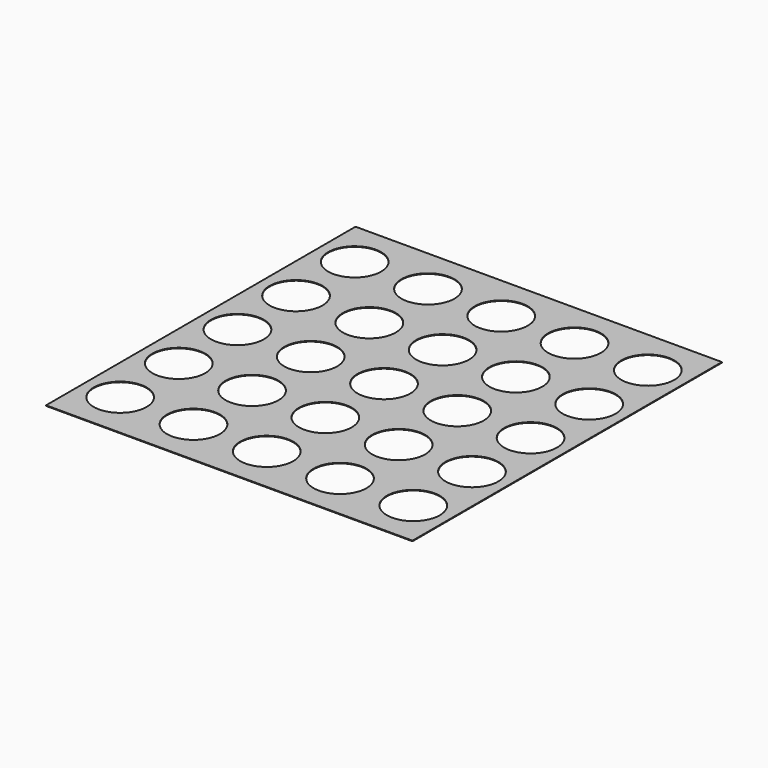
from build123d import *

# Parameters (mm, degrees)
F0_W     = 180
F0_H     = 190
F0_R     = 13
F1_DEPTH = 0.3


with BuildPart() as f1:
    # F0 (on Top) → F1 (new body)
    with BuildSketch(Plane.XY):
        with Locations((72, 72)):
            Rectangle(F0_W, F0_H)
        Circle(F0_R, mode=Mode.SUBTRACT)
        with Locations((36, 0)):
            Circle(F0_R, mode=Mode.SUBTRACT)
        with Locations((0, 36)):
            Circle(F0_R, mode=Mode.SUBTRACT)
        with Locations((36, 36)):
            Circle(F0_R, mode=Mode.SUBTRACT)
        with Locations((72, 0)):
            Circle(F0_R, mode=Mode.SUBTRACT)
        with Locations((108, 0)):
            Circle(F0_R, mode=Mode.SUBTRACT)
        with Locations((144, 0)):
            Circle(F0_R, mode=Mode.SUBTRACT)
        with Locations((72, 36)):
            Circle(F0_R, mode=Mode.SUBTRACT)
        with Locations((108, 36)):
            Circle(F0_R, mode=Mode.SUBTRACT)
        with Locations((144, 36)):
            Circle(F0_R, mode=Mode.SUBTRACT)
        with Locations((0, 72)):
            Circle(F0_R, mode=Mode.SUBTRACT)
        with Locations((0, 108)):
            Circle(F0_R, mode=Mode.SUBTRACT)
        with Locations((36, 72)):
            Circle(F0_R, mode=Mode.SUBTRACT)
        with Locations((36, 108)):
            Circle(F0_R, mode=Mode.SUBTRACT)
        with Locations((0, 144)):
            Circle(F0_R, mode=Mode.SUBTRACT)
        with Locations((36, 144)):
            Circle(F0_R, mode=Mode.SUBTRACT)
        with Locations((72, 72)):
            Circle(F0_R, mode=Mode.SUBTRACT)
        with Locations((108, 72)):
            Circle(F0_R, mode=Mode.SUBTRACT)
        with Locations((72, 108)):
            Circle(F0_R, mode=Mode.SUBTRACT)
        with Locations((108, 108)):
            Circle(F0_R, mode=Mode.SUBTRACT)
        with Locations((144, 72)):
            Circle(F0_R, mode=Mode.SUBTRACT)
        with Locations((144, 108)):
            Circle(F0_R, mode=Mode.SUBTRACT)
        with Locations((72, 144)):
            Circle(F0_R, mode=Mode.SUBTRACT)
        with Locations((108, 144)):
            Circle(F0_R, mode=Mode.SUBTRACT)
        with Locations((144, 144)):
            Circle(F0_R, mode=Mode.SUBTRACT)
    extrude(amount=F1_DEPTH)


solid = f1.part
